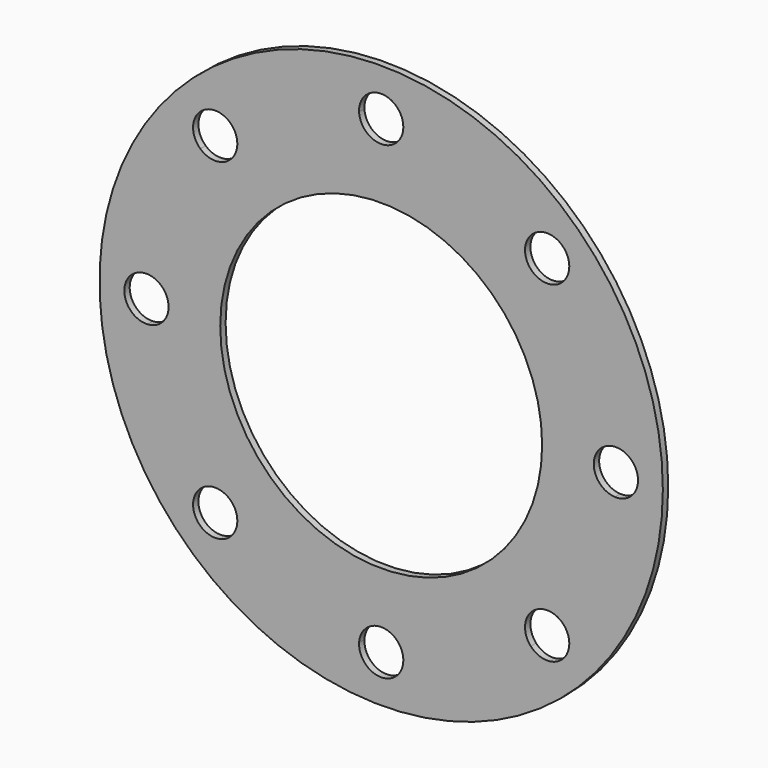
from build123d import *

# Parameters (mm, degrees)
F0_R     = 42
F0_R_2   = 24
F1_DEPTH = 0.5


with BuildPart() as f1:
    # F0 (on Front) → F1 (new body, symmetric)
    with BuildSketch(Plane.XZ):
        Circle(F0_R)
        with BuildLine():
            ThreePointArc((26.96959, 22.307874), (32.335784, 13.39392), (34.844429, 3.296331))
            ThreePointArc((34.844429, 3.296331), (37.277786, 2.387822), (38.3, 0))
            ThreePointArc((38.3, 0), (37.277786, -2.387822), (34.844429, -3.296331))
            ThreePointArc((34.844429, -3.296331), (32.335784, -13.39392), (26.96959, -22.307874))
            ThreePointArc((26.96959, -22.307874), (27.766917, -23.414348), (28.048737, -24.748737))
            ThreePointArc((28.048737, -24.748737), (25.939357, -27.826468), (22.307874, -26.96959))
            ThreePointArc((22.307874, -26.96959), (13.39392, -32.335784), (3.296331, -34.844429))
            ThreePointArc((3.296331, -34.844429), (3.299083, -34.922193), (3.3, -35))
            ThreePointArc((3.3, -35), (-0.077807, -38.299083), (-3.296331, -34.844429))
            ThreePointArc((-3.296331, -34.844429), (-13.39392, -32.335784), (-22.307874, -26.96959))
            ThreePointArc((-22.307874, -26.96959), (-27.08219, -27.08219), (-26.96959, -22.307874))
            ThreePointArc((-26.96959, -22.307874), (-32.335784, -13.39392), (-34.844429, -3.296331))
            ThreePointArc((-34.844429, -3.296331), (-38.3, 0), (-34.844429, 3.296331))
            ThreePointArc((-34.844429, 3.296331), (-32.335784, 13.39392), (-26.96959, 22.307874))
            ThreePointArc((-26.96959, 22.307874), (-27.08219, 27.08219), (-22.307874, 26.96959))
            ThreePointArc((-22.307874, 26.96959), (-13.39392, 32.335784), (-3.296331, 34.844429))
            ThreePointArc((-3.296331, 34.844429), (-0.077807, 38.299083), (3.3, 35))
            ThreePointArc((3.3, 35), (3.299083, 34.922193), (3.296331, 34.844429))
            ThreePointArc((3.296331, 34.844429), (13.39392, 32.335784), (22.307874, 26.96959))
            ThreePointArc((22.307874, 26.96959), (25.939357, 27.826468), (28.048737, 24.748737))
            ThreePointArc((28.048737, 24.748737), (27.766917, 23.414348), (26.96959, 22.307874))
        make_face(mode=Mode.SUBTRACT)
        with BuildLine():
            ThreePointArc((34.844429, -3.296331), (31.7, 0), (34.844429, 3.296331))
            ThreePointArc((34.844429, 3.296331), (32.335784, 13.39392), (26.96959, 22.307874))
            ThreePointArc((26.96959, 22.307874), (22.415285, 22.415285), (22.307874, 26.96959))
            ThreePointArc((22.307874, 26.96959), (13.39392, 32.335784), (3.296331, 34.844429))
            ThreePointArc((3.296331, 34.844429), (0, 31.7), (-3.296331, 34.844429))
            ThreePointArc((-3.296331, 34.844429), (-13.39392, 32.335784), (-22.307874, 26.96959))
            ThreePointArc((-22.307874, 26.96959), (-21.671007, 25.939357), (-21.448737, 24.748737))
            ThreePointArc((-21.448737, 24.748737), (-23.414348, 21.730558), (-26.96959, 22.307874))
            ThreePointArc((-26.96959, 22.307874), (-32.335784, 13.39392), (-34.844429, 3.296331))
            ThreePointArc((-34.844429, 3.296331), (-32.612178, 2.277786), (-31.7, 0))
            ThreePointArc((-31.7, 0), (-32.612178, -2.277786), (-34.844429, -3.296331))
            ThreePointArc((-34.844429, -3.296331), (-32.335784, -13.39392), (-26.96959, -22.307874))
            ThreePointArc((-26.96959, -22.307874), (-23.414348, -21.730558), (-21.448737, -24.748737))
            ThreePointArc((-21.448737, -24.748737), (-21.671007, -25.939357), (-22.307874, -26.96959))
            ThreePointArc((-22.307874, -26.96959), (-13.39392, -32.335784), (-3.296331, -34.844429))
            ThreePointArc((-3.296331, -34.844429), (0, -31.7), (3.296331, -34.844429))
            ThreePointArc((3.296331, -34.844429), (13.39392, -32.335784), (22.307874, -26.96959))
            ThreePointArc((22.307874, -26.96959), (22.415285, -22.415285), (26.96959, -22.307874))
            ThreePointArc((26.96959, -22.307874), (32.335784, -13.39392), (34.844429, -3.296331))
        make_face()
        Circle(F0_R_2, mode=Mode.SUBTRACT)
    extrude(amount=F1_DEPTH, both=True)


solid = f1.part
